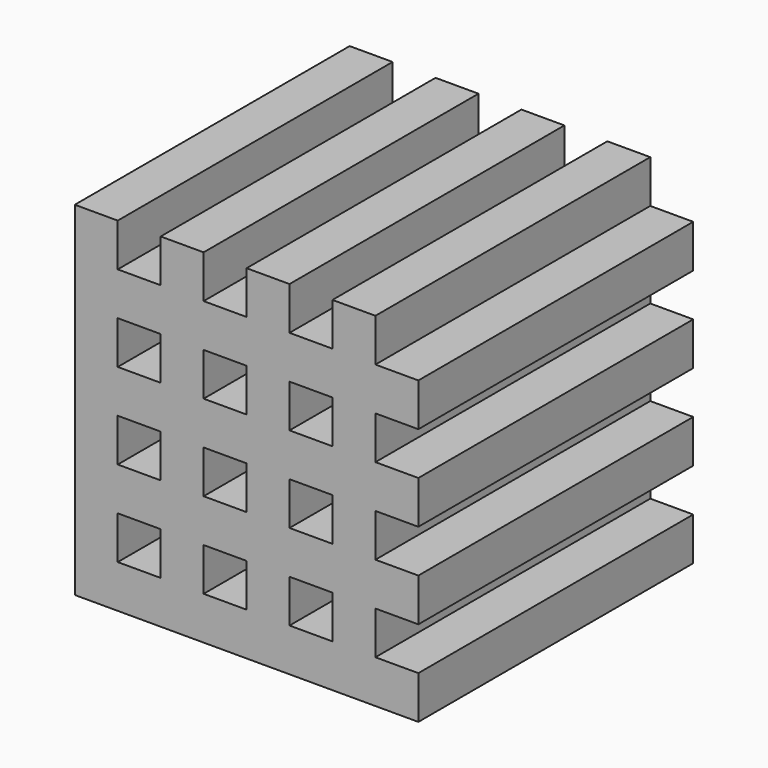
from build123d import *

# Parameters (mm, degrees)
F0_W     = 3.175
F0_H     = 25.4
F1_DEPTH = 25.4
F2_W     = 25.4
F2_H     = 3.175
F3_DEPTH = 25.4


with BuildPart() as f1:
    # F0 (on Top) → F1 (new body)
    with BuildSketch(Plane.XY):
        with Locations((1.5875, 12.7)):
            Rectangle(F0_W, F0_H)
        with Locations((7.9375, 12.7)):
            Rectangle(F0_W, F0_H)
        with Locations((14.2875, 12.7)):
            Rectangle(F0_W, F0_H)
        with Locations((20.6375, 12.7)):
            Rectangle(F0_W, F0_H)
    extrude(amount=F1_DEPTH)

    # F2 (on Front) → F3 (join)
    with BuildSketch(Plane.XZ):
        with Locations((12.7, 1.5875)):
            Rectangle(F2_W, F2_H)
        with Locations((12.7, 7.9375)):
            Rectangle(F2_W, F2_H)
        with Locations((12.7, 14.2875)):
            Rectangle(F2_W, F2_H)
        with Locations((12.7, 20.6375)):
            Rectangle(F2_W, F2_H)
    extrude(amount=-F3_DEPTH)


solid = f1.part
